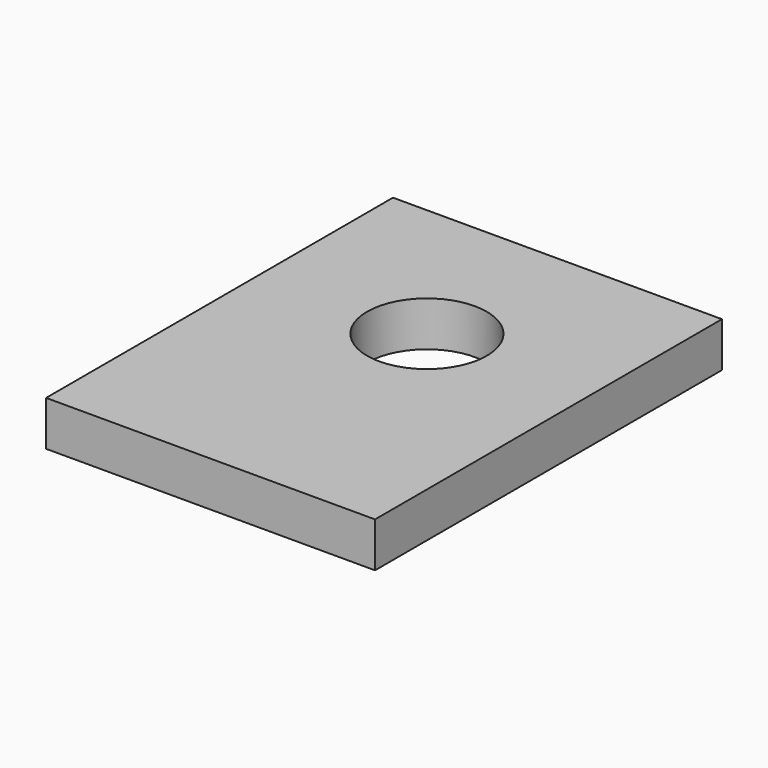
from build123d import *

# Parameters (mm, degrees)
F0_W     = 34.925
F0_H     = 46.0375
F1_DEPTH = 4.7625
F3_D     = 12.7


with BuildPart() as f1:
    # F0 (on Top) → F1 (new body)
    with BuildSketch(Plane.XY):
        with Locations((0, -23.01875)):
            Rectangle(F0_W, F0_H)
    extrude(amount=-F1_DEPTH)

    # F3 (through all)
    with Locations(Plane.XY):
        with Locations((0, -17.319655)):
            Hole(F3_D / 2)


solid = f1.part
